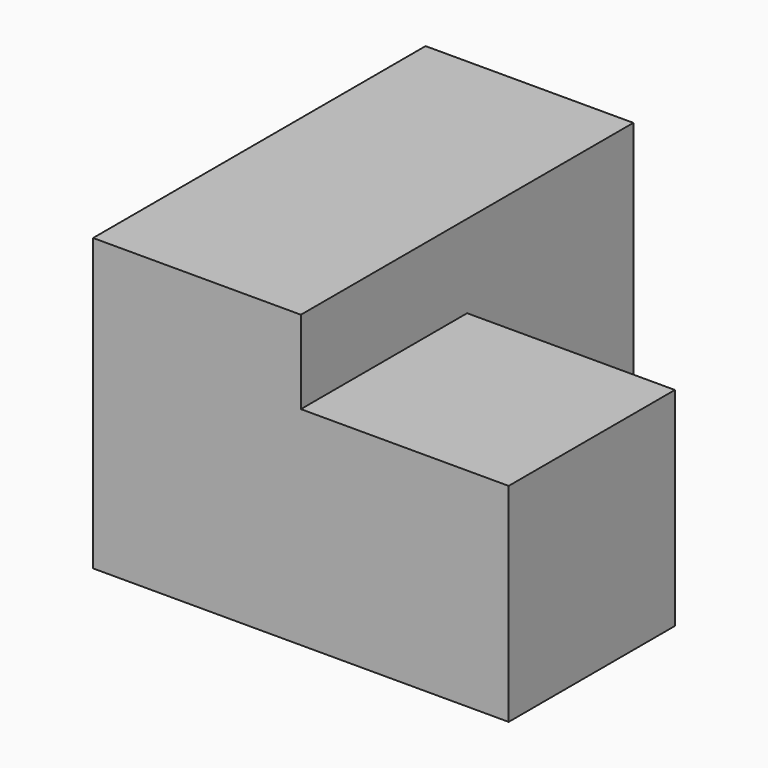
from build123d import *

# Parameters (mm, degrees)
BOX_W        = 10
BOX_H        = 20
BOX_DEPTH    = 14
BOX001_W     = 10
BOX001_H     = 10
BOX001_DEPTH = 10


with BuildPart() as cub:
    # Box → Box (new body)
    with BuildSketch(Plane.XY):
        with Locations((5, 10)):
            Rectangle(BOX_W, BOX_H)
    extrude(amount=BOX_DEPTH)


with BuildPart() as cub001:
    # Box001 → Box001 (new body)
    with BuildSketch(Plane(origin=(10, 0, 0), x_dir=(1, 0, 0), z_dir=(0, 0, 1))):
        with Locations((5, 5)):
            Rectangle(BOX001_W, BOX001_H)
    extrude(amount=BOX001_DEPTH)


with BuildPart() as fusion001:
    # Fusion base: copy of Cub
    add(cub.part)

    # Fusion: union Cub001
    add(cub001.part)

    # Fusion001: union Cub
    add(cub.part)


solid = fusion001.part
